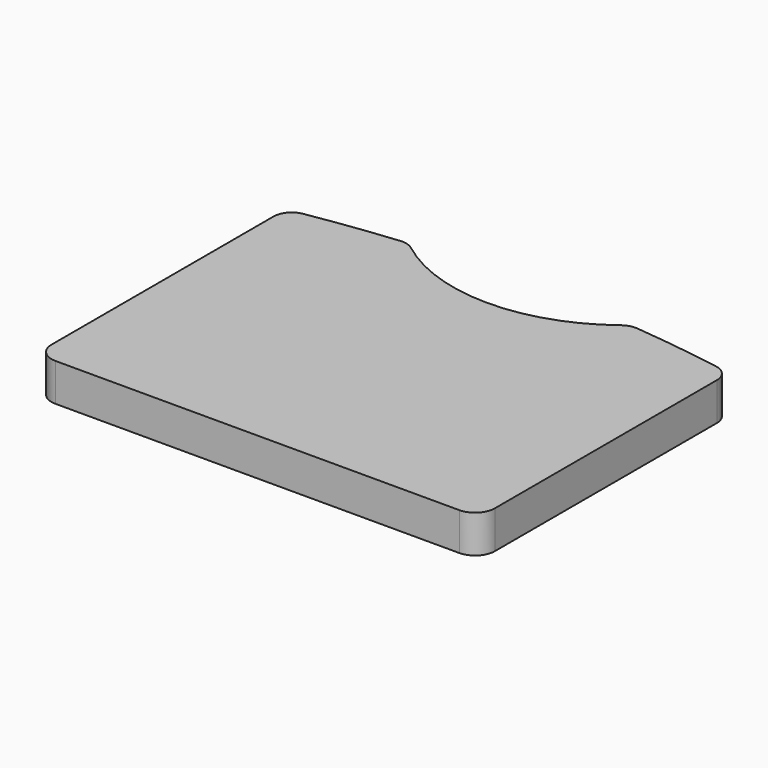
from build123d import *

# Parameters (mm, degrees)
F1_DEPTH = 23


with BuildPart() as f1:
    # F0 (on Top) → F1 (new body)
    with BuildSketch(Plane.XY):
        with BuildLine():
            ThreePointArc((-135, -87.75), (-131.485281, -96.235281), (-123, -99.75))
            Line((-123, -99.75), (123, -99.75))
            ThreePointArc((123, -99.75), (131.485281, -96.235281), (135, -87.75))
            Line((135, -87.75), (135, 81.331121))
            ThreePointArc((135, 81.331121), (132.403394, 88.429218), (125.839459, 92.17623))
            ThreePointArc((125.839459, 92.17623), (99.105981, 96.217898), (72.244569, 99.296609))
            ThreePointArc((72.244569, 99.296609), (67.790252, 98.888715), (63.794752, 96.877918))
            ThreePointArc((63.794752, 96.877918), (33.680622, 80.80401), (0, 75.25))
            ThreePointArc((0, 75.25), (-33.680622, 80.80401), (-63.794752, 96.877918))
            ThreePointArc((-63.794752, 96.877918), (-67.790252, 98.888715), (-72.244569, 99.296609))
            ThreePointArc((-72.244569, 99.296609), (-99.105981, 96.217898), (-125.839459, 92.17623))
            ThreePointArc((-125.839459, 92.17623), (-132.403394, 88.429218), (-135, 81.331121))
            Line((-135, 81.331121), (-135, -87.75))
        make_face()
    extrude(amount=F1_DEPTH)


solid = f1.part
